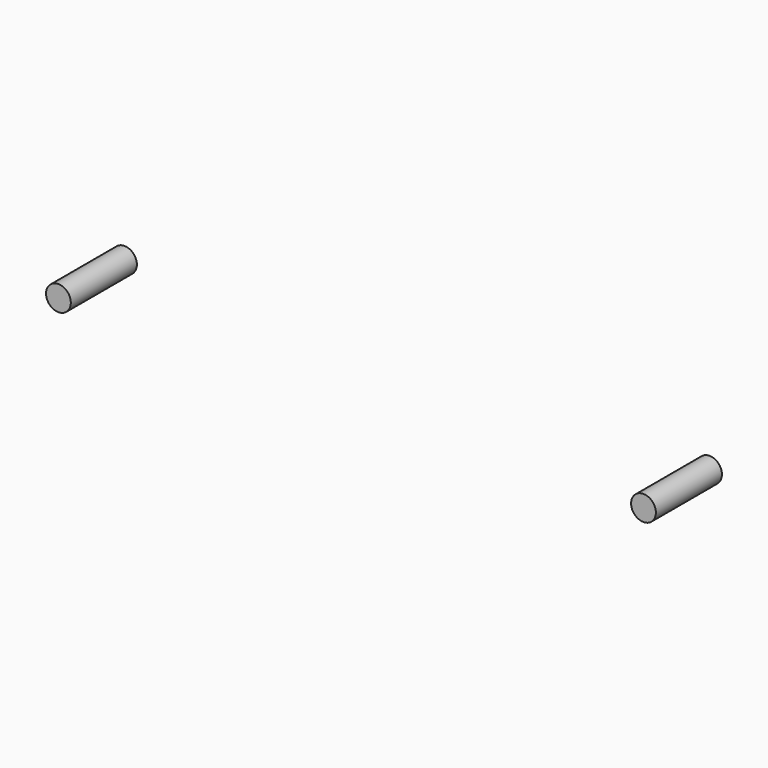
from build123d import *

# Parameters (mm, degrees)
CYLINDER016_R     = 1.5
CYLINDER016_DEPTH = 10
CYLINDER_R        = 1.5
CYLINDER_DEPTH    = 10


with BuildPart() as cylinder016:
    # Cylinder016 → Cylinder016 (new body)
    with BuildSketch(Plane(origin=(35.275, 23, 7.5), x_dir=(1, 0, 0), z_dir=(0, -1, 0))):
        Circle(CYLINDER016_R)
    extrude(amount=CYLINDER016_DEPTH)


with BuildPart() as drill:
    # Cylinder → Cylinder (new body)
    with BuildSketch(Plane(origin=(-34.78, 22, 7.5), x_dir=(1, 0, 0), z_dir=(0, -1, 0))):
        Circle(CYLINDER_R)
    extrude(amount=CYLINDER_DEPTH)

    # Fusion003: union Cylinder016
    add(cylinder016.part)


solid = drill.part
